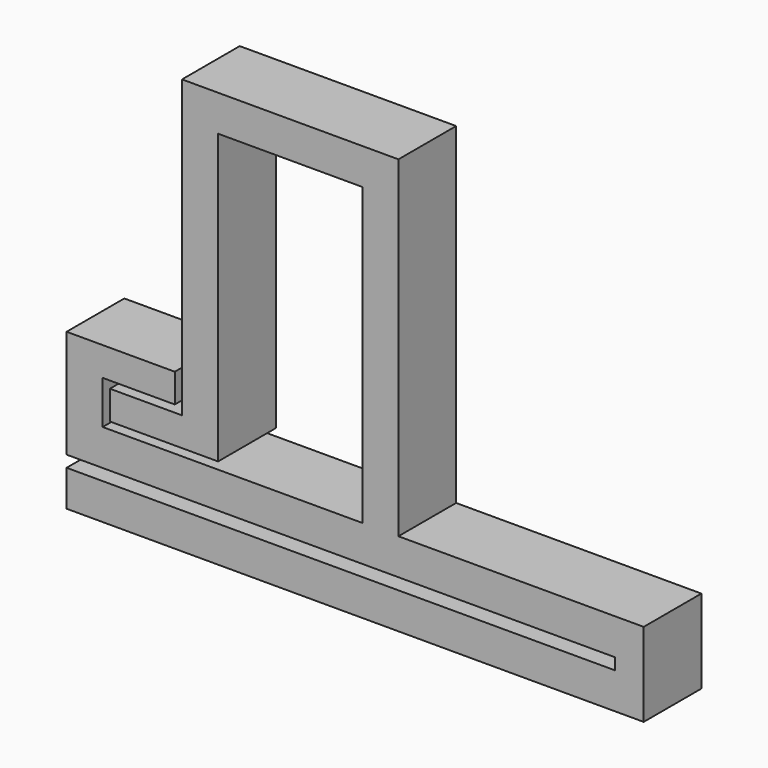
from build123d import *

# Parameters (mm, degrees)
F0_W     = 38
F0_H     = 2.5
F0_W_2   = 2
F0_H_2   = 0.4
F0_W_3   = 10
F0_W_4   = 2.5
F0_W_5   = 5
F0_H_3   = 2
F1_DEPTH = 5


with BuildPart() as f1:
    # F0 (on Front) → F1 (new body)
    with BuildSketch(Plane.XZ):
        with Locations((-1, -1.65)):
            Rectangle(F0_W, F0_H)
        with Locations((19, -1.65)):
            Rectangle(F0_W_2, F0_H)
        with Locations((19, -0.2)):
            Rectangle(F0_W_2, F0_H_2)
        with Locations((19, 0.2)):
            Rectangle(F0_W_2, F0_H_2)
        with Locations((19, 1.65)):
            Rectangle(F0_W_2, F0_H)
        Polygon((-20, 0.4), (18, 0.4), (18, 2.9), (3, 2.9), (0.5, 2.9), (-17.5, 2.9), (-20, 2.9), align=None)
        Polygon((0.5, 2.9), (3, 2.9), (3, 25.9), (0.5, 25.9), (0.5, 23.4), align=None)
        with Locations((-4.5, 24.65)):
            Rectangle(F0_W_3, F0_H)
        with Locations((-10.75, 24.65)):
            Rectangle(F0_W_4, F0_H)
        Polygon((-9.5, 3.4), (-9.5, 23.4), (-12, 23.4), (-12, 5.4), (-12, 3.4), align=None)
        with Locations((-14.5, 4.4)):
            Rectangle(F0_W_5, F0_H_3)
        with Locations((-15, 6.9)):
            Rectangle(F0_W_5, F0_H_3)
        Polygon((-20, 7.9), (-20, 2.9), (-17.5, 2.9), (-17.5, 5.9), (-17.5, 7.9), align=None)
    extrude(amount=F1_DEPTH)


solid = f1.part
